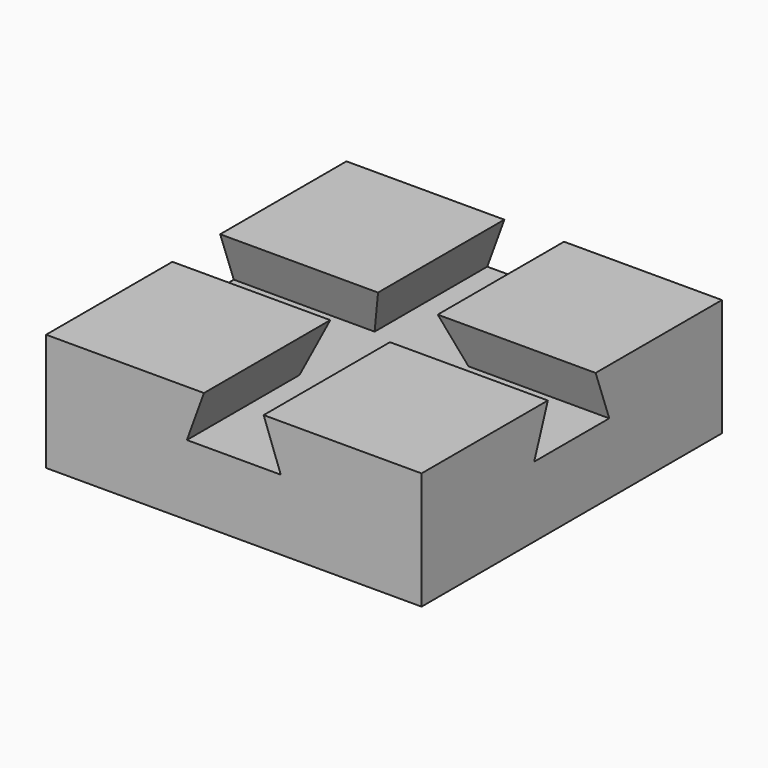
from build123d import *

# Parameters (mm, degrees)
F0_W     = 80
F0_H     = 25
F1_DEPTH = 80
F3_DEPTH = 80
F5_DEPTH = 80


with BuildPart() as f1:
    # F0 (on Front) → F1 (new body)
    with BuildSketch(Plane.XZ):
        with Locations((40, 12.5)):
            Rectangle(F0_W, F0_H)
    extrude(amount=F1_DEPTH)

    # F2 (on Right) → F3 (cut)
    with BuildSketch(Plane.YZ):
        Polygon((-50, 15), (-30, 15), (-33.64, 25), (-46.36, 25), align=None)
    extrude(amount=F3_DEPTH, mode=Mode.SUBTRACT)

    # F4 (on Front) → F5 (cut)
    with BuildSketch(Plane.XZ):
        Polygon((46.36, 25), (40, 25), (33.64, 25), (30, 15), (40, 15), (50, 15), align=None)
    extrude(amount=F5_DEPTH, mode=Mode.SUBTRACT)


solid = f1.part
